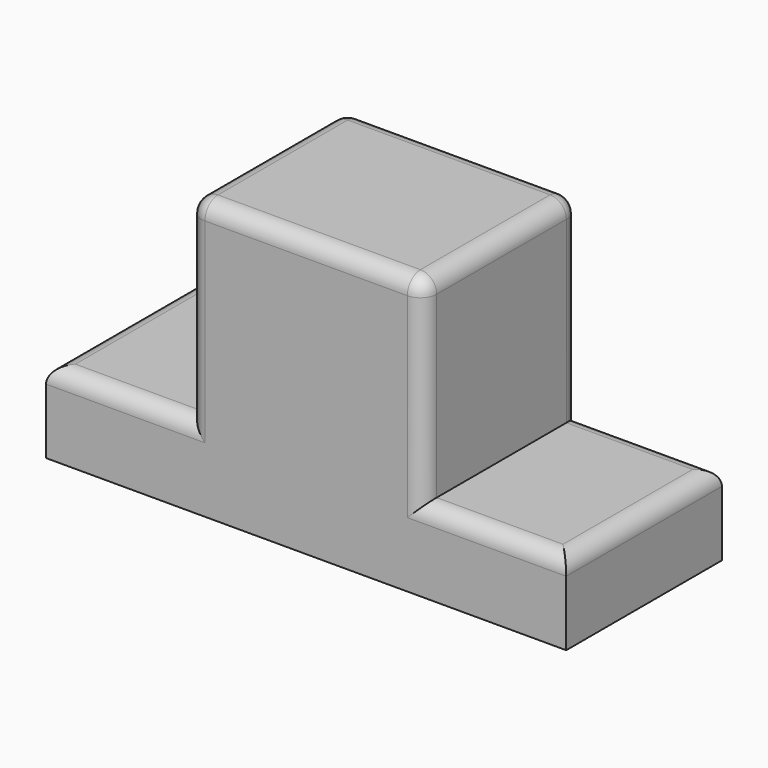
from build123d import *

# Parameters (mm, degrees)
F0_W     = 159.7669422626
F0_H     = 59.7716327757
F1_DEPTH = 25
F2_W     = 36.0885336995
F2_H     = 59.7716327757
F2_W_2   = 36.0885262489
F3_DEPTH = 60
F4_R     = 5


with BuildPart() as f1:
    # F0 (on Top) → F1 (new body)
    with BuildSketch(Plane.XY):
        with Locations((12.2174695134, 5.6388350204)):
            Rectangle(F0_W, F0_H)
    extrude(amount=F1_DEPTH)

    # F2 (on face) → F3 (join)
    with BuildSketch(Plane.XY.offset(25)):
        with Locations((-5.8267973363, 5.6388350204)):
            Rectangle(F2_W, F2_H)
        with Locations((30.2617326379, 5.6388350204)):
            Rectangle(F2_W_2, F2_H)
    extrude(amount=F3_DEPTH)

    # F4
    f4_edges = [f1.edges().sort_by_distance(p)[0] for p in [
        (-23.871064, -24.246981, 55),
        (-23.871064, 35.524651, 55),
        (48.305996, -24.246981, 55),
        (-45.768533, -24.246981, 25),
        (-45.768533, 35.524651, 25),
        (70.203468, -24.246981, 25),
        (70.203468, 35.524651, 25),
        (48.305996, 35.524651, 55),
        (-67.666002, 5.638835, 25),
        (92.100941, 5.638835, 25),
        (48.305996, 5.638835, 85),
        (-23.871064, 5.638835, 85),
        (12.217466, 35.524651, 85),
        (12.217466, -24.246981, 85),
    ]]
    fillet(f4_edges, radius=F4_R)


solid = f1.part
